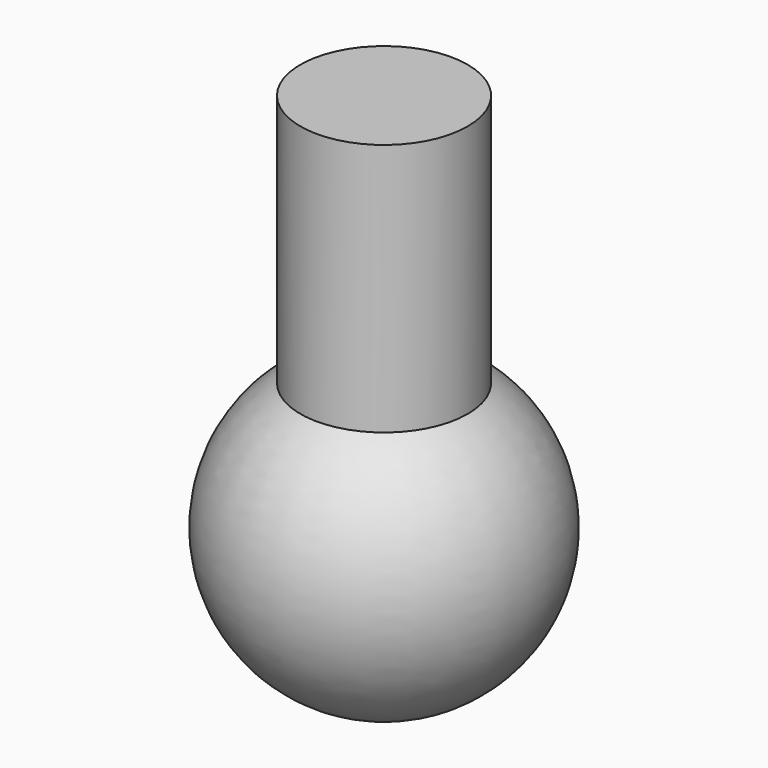
from build123d import *


with BuildPart() as f1:
    # F0 (on Front) → F1 (revolve)
    with BuildSketch(Plane.XZ):
        with BuildLine():
            Line((0, 70), (0, 0))
            ThreePointArc((0, 0), (19.158104, 14.258304), (11, 36.703293))
            Line((11, 36.703293), (11, 70))
            Line((11, 70), (0, 70))
        make_face()
    revolve(axis=Axis((0, 0, 82.142748), (0, 0, 1)))


solid = f1.part
